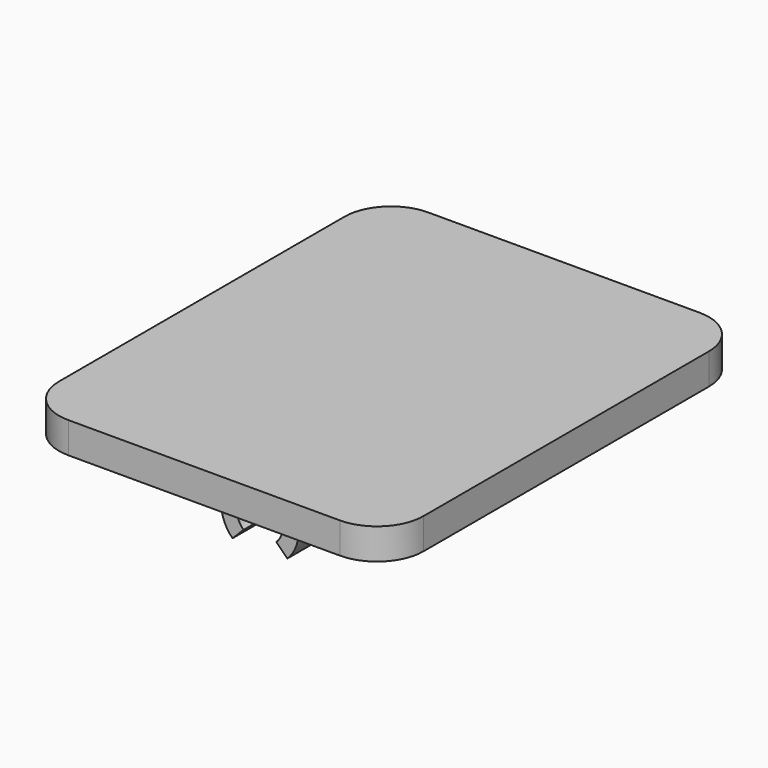
from build123d import *

# Parameters (mm, degrees)
F1_DEPTH = 2
F2_W     = 5
F2_H     = 2
F3_DEPTH = 5
F5_DEPTH = 25


with BuildPart() as f1:
    # F0 (on Top) → F1 (new body)
    with BuildSketch(Plane.XY):
        with BuildLine():
            Line((-8.75, -14.5), (8.75, -14.5))
            ThreePointArc((8.75, -14.5), (10.87132, -13.62132), (11.75, -11.5))
            Line((11.75, -11.5), (11.75, 11.5))
            ThreePointArc((11.75, 11.5), (10.87132, 13.62132), (8.75, 14.5))
            Line((8.75, 14.5), (-8.75, 14.5))
            ThreePointArc((-8.75, 14.5), (-10.87132, 13.62132), (-11.75, 11.5))
            Line((-11.75, 11.5), (-11.75, -11.5))
            ThreePointArc((-11.75, -11.5), (-10.87132, -13.62132), (-8.75, -14.5))
        make_face()
    extrude(amount=F1_DEPTH)

    # F2 (on face) → F3 (join)
    with BuildSketch(Plane(origin=(0, 0, 0), x_dir=(1, 0, 0), z_dir=(0, 0, -1))):
        with Locations((0, 9)):
            Rectangle(F2_W, F2_H)
        with Locations((0, -9)):
            Rectangle(F2_W, F2_H)
    extrude(amount=F3_DEPTH)

    # F4 (on face) → F5 (cut)
    with BuildSketch(Plane.XZ.offset(10)):
        with BuildLine():
            ThreePointArc((2.5, -2.5), (2.309699, -3.456709), (1.767767, -4.267767))
            Line((1.767767, -4.267767), (1.06066, -3.56066))
            ThreePointArc((1.06066, -3.56066), (0, -1), (-1.06066, -3.56066))
            Line((-1.06066, -3.56066), (-1.767767, -4.267767))
            ThreePointArc((-1.767767, -4.267767), (-2.309699, -3.456709), (-2.5, -2.5))
            Line((-2.5, -2.5), (-2.5, -5))
            Line((-2.5, -5), (2.5, -5))
            Line((2.5, -5), (2.5, -2.5))
        make_face()
        Polygon((3.523229, -2.854811), (2.5, -2.5), (2.5, -5), (-2.5, -5), (-2.5, -2.5), (-3.529894, -2.823659), (-4.289252, -6.509164), (2.408858, -5.650775), (4.006271, -4.421826), align=None)
    extrude(amount=-F5_DEPTH, mode=Mode.SUBTRACT)


solid = f1.part
